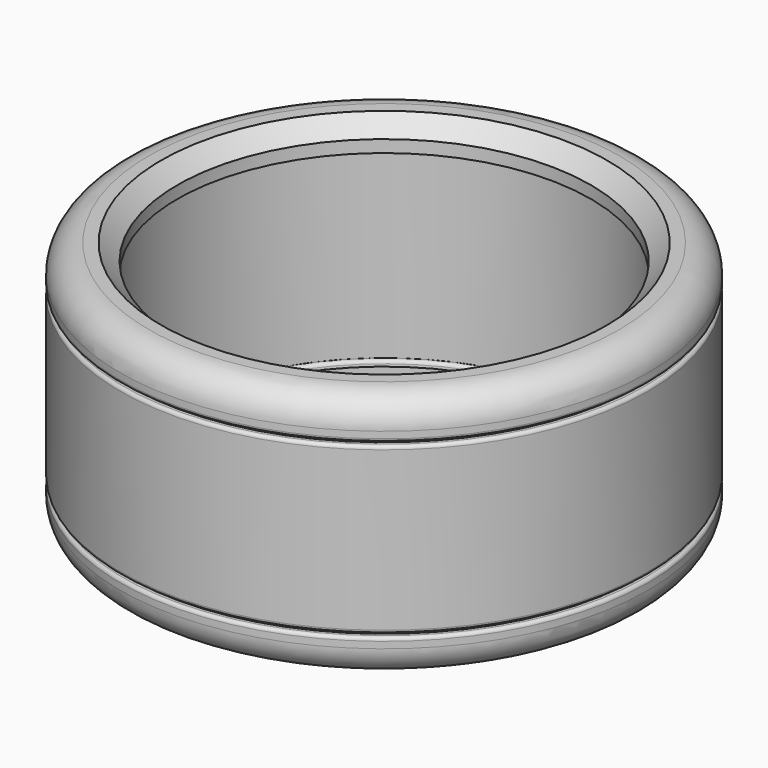
from build123d import *

# Parameters (mm, degrees)
F3_SIZE = 5.08


with BuildPart() as f2:
    # F2: sweep along a path in F0
    with BuildLine(Plane.XY) as f2_path:
        CenterArc((0, 0), 82.55, 0, 360)
    # F1 (on Front) → F2 (sweep)
    with BuildSketch(Plane.XZ):
        with BuildLine():
            ThreePointArc((-81.9340421036, 8.89), (-79.3302213883, 2.6038207153), (-73.0440421036, 0))
            Line((-73.0440421036, 0), (-64.1540421036, 0))
            Line((-64.1540421036, 0), (-64.1540421036, 9.9706078816))
            Line((-64.1540421036, 9.9706078816), (-65.6646921363, 9.9706078816))
            ThreePointArc((-65.6646921363, 9.9706078816), (-66.383112626, 10.2681873919), (-66.6806921363, 10.9866078816))
            Line((-66.6806921363, 10.9866078816), (-66.6806921363, 67.31))
            ThreePointArc((-66.6806921363, 67.31), (-66.383112626, 68.0284204897), (-65.6646921363, 68.326))
            Line((-65.6646921363, 68.326), (-64.1540421036, 68.326))
            Line((-64.1540421036, 68.326), (-64.1540421036, 77.216))
            Line((-64.1540421036, 77.216), (-73.0440421036, 77.216))
            ThreePointArc((-73.0440421036, 77.216), (-79.3302213883, 74.6121792847), (-81.9340421036, 68.326))
            Line((-81.9340421036, 68.326), (-81.9340421036, 66.294))
            ThreePointArc((-81.9340421036, 66.294), (-81.6364625932, 65.5755795103), (-80.9180421036, 65.278))
            Line((-80.9180421036, 65.278), (-79.9020421036, 65.278))
            Line((-79.9020421036, 65.278), (-79.9020421036, 64.262))
            Line((-79.9020421036, 64.262), (-80.9180421036, 64.262))
            ThreePointArc((-80.9180421036, 64.262), (-81.6364625932, 63.9644204897), (-81.9340421036, 63.246))
            Line((-81.9340421036, 63.246), (-81.9340421036, 13.97))
            ThreePointArc((-81.9340421036, 13.97), (-81.6364625932, 13.2515795103), (-80.9180421036, 12.954))
            Line((-80.9180421036, 12.954), (-79.9020421036, 12.954))
            Line((-79.9020421036, 12.954), (-79.9020421036, 11.938))
            Line((-79.9020421036, 11.938), (-80.9180421036, 11.938))
            ThreePointArc((-80.9180421036, 11.938), (-81.6364625932, 11.6404204897), (-81.9340421036, 10.922))
            Line((-81.9340421036, 10.922), (-81.9340421036, 8.89))
        make_face()
    sweep(path=f2_path.line)

    # F3
    f3_edges = [f2.edges().sort_by_distance(p)[0] for p in [
        (-64.154042, 0, 77.216),
    ]]
    chamfer(f3_edges, length=F3_SIZE)


solid = f2.part
